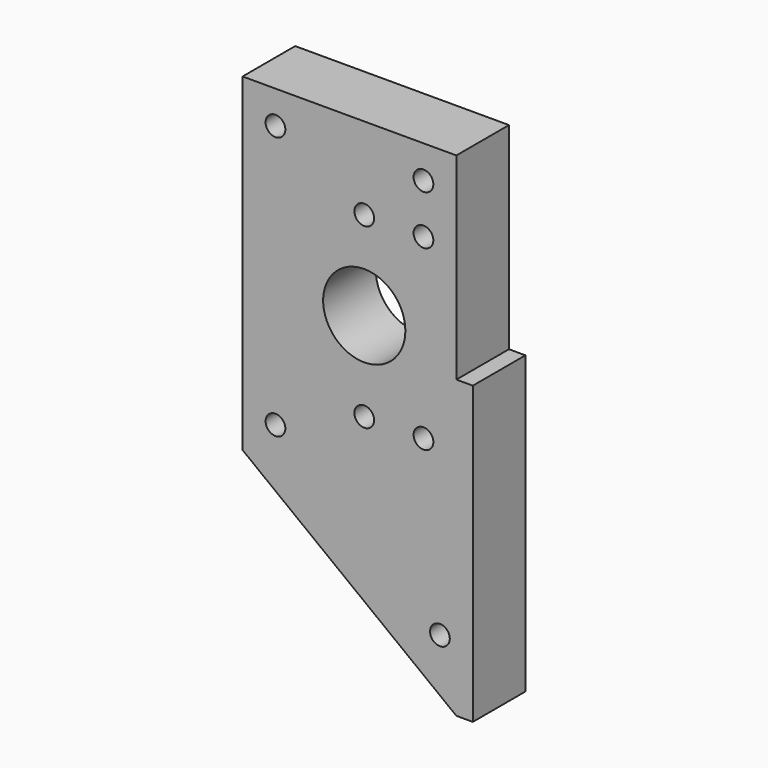
from build123d import *

# Parameters (mm, degrees)
F0_R      = 18
F0_R_2    = 3
F0_W      = 3
F0_H      = 29
F0_H_2    = 15
F0_R_3    = 12.5
F1_DEPTH  = 20
F2_DEPTH  = 25
F4_DEPTH  = 25
F5_W      = 22
F5_H      = 19
F6_DEPTH  = 25
F8_DEPTH  = 25
F9_R      = 3
F10_DEPTH = 25


with BuildPart() as f1:
    # F0 (on Front) → F1 (new body)
    with BuildSketch(Plane.XZ):
        Polygon((60, 50), (60, 0), (155, 0), (155, 90), (63, 90), (63, 75), (60, 75), align=None)
        Polygon((1, 75), (60, 75), (60, 90), (60, 119), (1, 119), align=None)
        with Locations((32, 98)):
            Circle(F0_R, mode=Mode.SUBTRACT)
        Polygon((-5, 50), (60, 50), (60, 75), (1, 75), (1, 119), (60, 119), (60, 120), (-5, 120), align=None)
        with Locations((32, 71)):
            Circle(F0_R_2, mode=Mode.SUBTRACT)
        with Locations((50, 71)):
            Circle(F0_R_2, mode=Mode.SUBTRACT)
        Polygon((63, 90), (155, 90), (155, 150), (-5, 150), (-5, 120), (60, 120), (60, 119), (63, 119), align=None)
        with Locations((32, 125)):
            Circle(F0_R_2, mode=Mode.SUBTRACT)
        with Locations((50, 125)):
            Circle(F0_R_2, mode=Mode.SUBTRACT)
        with Locations((61.5, 104.5)):
            Rectangle(F0_W, F0_H)
        with Locations((61.5, 82.5)):
            Rectangle(F0_W, F0_H_2)
        with Locations((32, 98)):
            Circle(F0_R_3)
        with Locations((32, 98)):
            Circle(F0_R)
        with Locations((32, 98)):
            Circle(F0_R_3, mode=Mode.SUBTRACT)
        Polygon((-5, 50), (60, 0), (60, 50), align=None)
    extrude(amount=F1_DEPTH)

    # F0 (on Front) → F2 (cut)
    with BuildSketch(Plane.XZ):
        with Locations((32, 98)):
            Circle(F0_R_3)
    extrude(amount=F2_DEPTH, mode=Mode.SUBTRACT)

    # F3 (on face) → F4 (cut)
    with BuildSketch(Plane.XZ.offset(20)):
        with BuildLine():
            Line((65, 0), (155, 0))
            Line((155, 0), (155, 90))
            Line((155, 90), (70, 90))
            ThreePointArc((70, 90), (66.464466, 88.535534), (65, 85))
            Line((65, 85), (65, 0))
        make_face()
    extrude(amount=-F4_DEPTH, mode=Mode.SUBTRACT)

    # F5 (on face) → F6 (cut)
    with BuildSketch(Plane(origin=(0, 0, 0), x_dir=(-1, 0, 0), z_dir=(0, 1, 0))):
        with Locations((-87, 99.5)):
            Rectangle(F5_W, F5_H)
    extrude(amount=-F6_DEPTH, mode=Mode.SUBTRACT)

    # F7 (on face) → F8 (cut)
    with BuildSketch(Plane.XZ.offset(20)):
        with BuildLine():
            Line((155, 150), (60, 150))
            Line((60, 150), (60, 90))
            Line((60, 90), (65, 90))
            Line((65, 90), (65, 85))
            ThreePointArc((65, 85), (66.464466, 88.535534), (70, 90))
            Line((70, 90), (76, 90))
            Line((76, 90), (76, 109))
            Line((76, 109), (98, 109))
            Line((98, 109), (98, 90))
            Line((98, 90), (155, 90))
            Line((155, 90), (155, 150))
        make_face()
    extrude(amount=-F8_DEPTH, mode=Mode.SUBTRACT)

    # F9 (on face) → F10 (cut)
    with BuildSketch(Plane.XZ.offset(20)):
        with Locations((5, 140)):
            Circle(F9_R)
        with Locations((50, 140)):
            Circle(F9_R)
        with Locations((5, 60)):
            Circle(F9_R)
        with Locations((55, 20)):
            Circle(F9_R)
    extrude(amount=-F10_DEPTH, mode=Mode.SUBTRACT)


solid = f1.part
